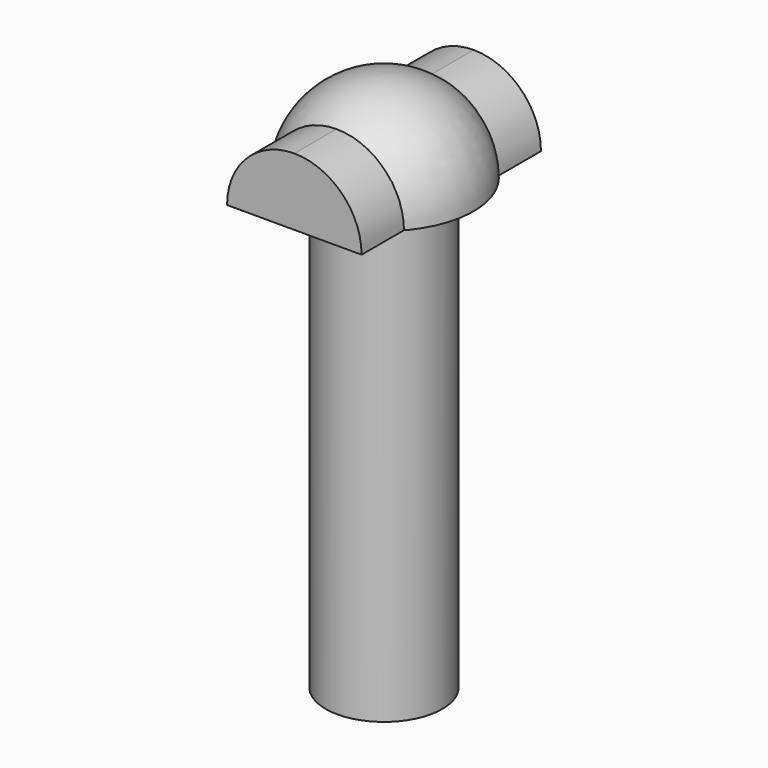
from build123d import *

# Parameters (mm, degrees)
F3_DEPTH = 50
F5_DEPTH = 12.5


with BuildPart() as f1:
    # F0 (on Front) → F1 (revolve)
    with BuildSketch(Plane.XZ):
        with BuildLine():
            Line((0, 0), (0, 10))
            ThreePointArc((0, 10), (-7.071068, 7.071068), (-10, 0))
            Line((-10, 0), (0, 0))
        make_face()
    revolve(axis=Axis((0, 0, 5), (0, 0, -1)))


with BuildPart() as f3:
    # F2 (on Top) → F3 (new body)
    with BuildSketch(Plane.XY):
        with BuildLine():
            Line((4, 5.123475), (-4, 5.123475))
            ThreePointArc((-4, 5.123475), (0, -6.5), (4, 5.123475))
        make_face()
    extrude(amount=-F3_DEPTH)


with BuildPart() as f5:
    # F4 (on Front) → F5 (new body, symmetric)
    with BuildSketch(Plane.XZ):
        with BuildLine():
            ThreePointArc((7.5, 0), (5.303301, 5.303301), (0, 7.5))
            ThreePointArc((0, 7.5), (-5.303301, 5.303301), (-7.5, 0))
            Line((-7.5, 0), (7.5, 0))
        make_face()
    extrude(amount=F5_DEPTH, both=True)


solid = Compound([f1.part, f3.part, f5.part])
